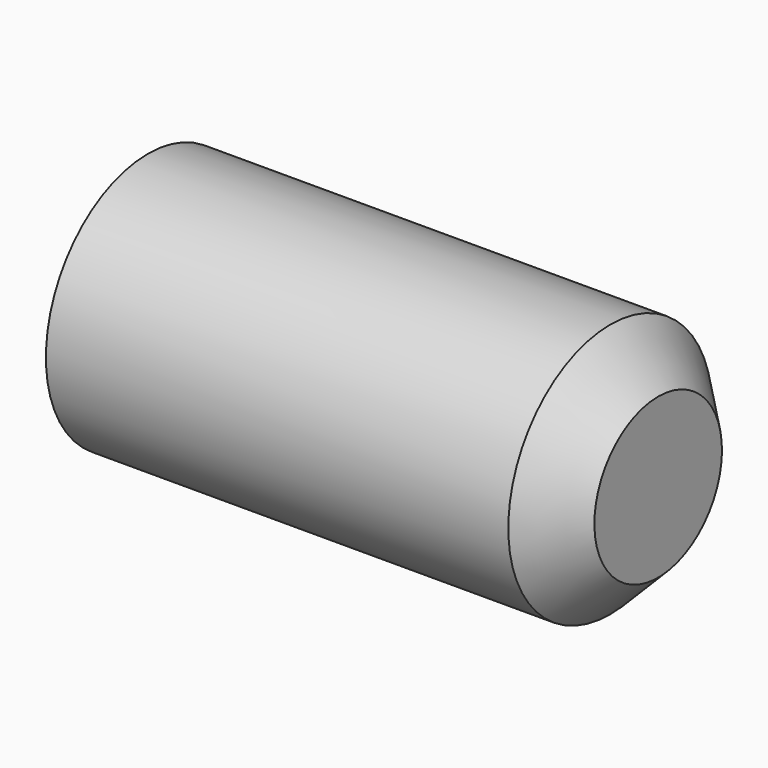
from build123d import *

# Parameters (mm, degrees)
F3_DEPTH = 1.5


with BuildPart() as f1:
    # F0 (on Front) → F1 (revolve)
    with BuildSketch(Plane.XZ):
        Polygon((3.25, 2), (-4, 2), (-4, 0), (4, 0), (4, 1.25), align=None)
    revolve(axis=Axis((0, 0, 0), (1, 0, 0)))

    # F2 (on face) → F3 (cut)
    with BuildSketch(Plane(origin=(-4, 0, 0), x_dir=(0, -1, 0), z_dir=(-1, 0, 0))):
        Polygon((1.119515, 0.263033), (0.331965, 1.101045), (-0.78755, 0.838012), (-1.119515, -0.263033), (-0.331965, -1.101045), (0.78755, -0.838012), align=None)
    extrude(amount=-F3_DEPTH, mode=Mode.SUBTRACT)


solid = f1.part
